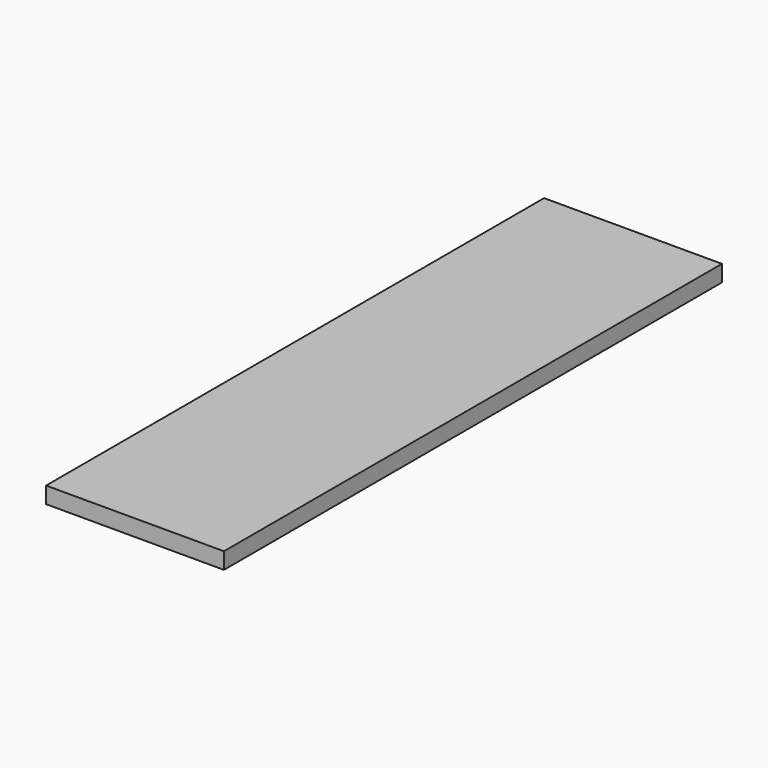
from build123d import *

# Parameters (mm, degrees)
PAD_DEPTH = 12


with BuildPart() as part:
    # Sketch → Pad (new body)
    with BuildSketch(Plane.XY):
        Polygon((0, 455), (130, 455), (130, 0), (0, 0), (0, 227.5), align=None)
    extrude(amount=PAD_DEPTH)


solid = part.part
